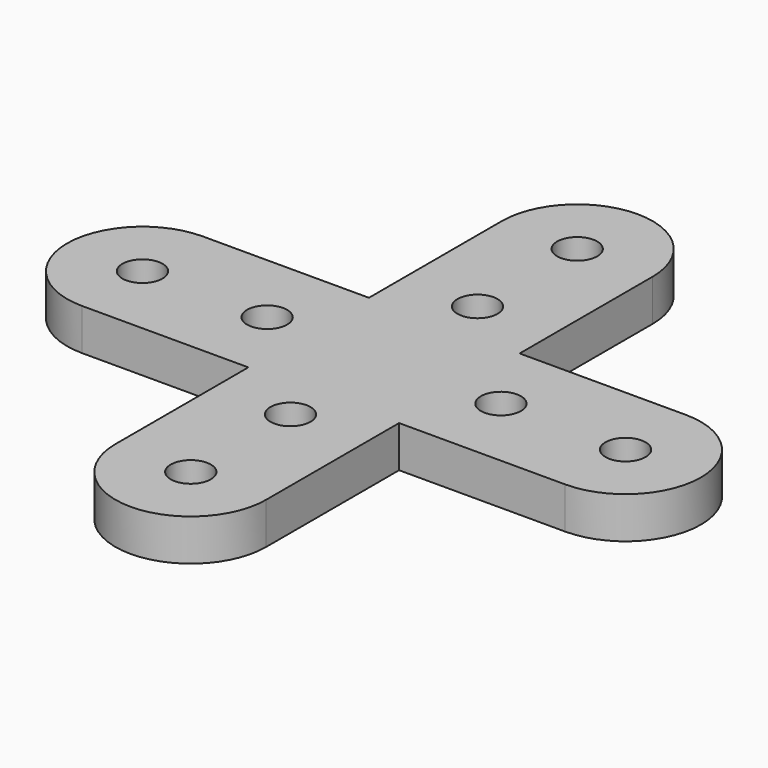
from build123d import *

# Parameters (mm, degrees)
F3_DEPTH = 7
F4_D     = 6.7564
F5_COUNT = 4


with BuildPart() as f3:
    # F1 (on Top) → F3 (new body)
    with BuildSketch(Plane.XY):
        with BuildLine():
            Line((-28.5, 12.7), (-40.7, 12.7))
            ThreePointArc((-40.7, 12.7), (-53.4, 0), (-40.7, -12.7))
            Line((-40.7, -12.7), (-28.5, -12.7))
            Line((-28.5, -12.7), (-12.7, -12.7))
            Line((-12.7, -12.7), (0, 0))
            Line((0, 0), (-12.7, 12.7))
            Line((-12.7, 12.7), (-28.5, 12.7))
        make_face()
    extrude(amount=F3_DEPTH)

    # F4 (through all)
    with Locations(Plane(origin=(0, 0, 0), x_dir=(1, 0, 0), z_dir=(0, 0, -1))):
        with Locations((-40.7, 0), (-19.7, 0)):
            Hole(F4_D / 2)

    # F5: F3 ×4 about axis
    f5_axis = Axis((0, 0, 15.328399837), (0, 0, 1))


with BuildPart() as f3_1:
    add(f3.part)
    for i in range(1, F5_COUNT):
        add(f3.part.rotate(f5_axis, i * 360 / F5_COUNT))


solid = f3_1.part
